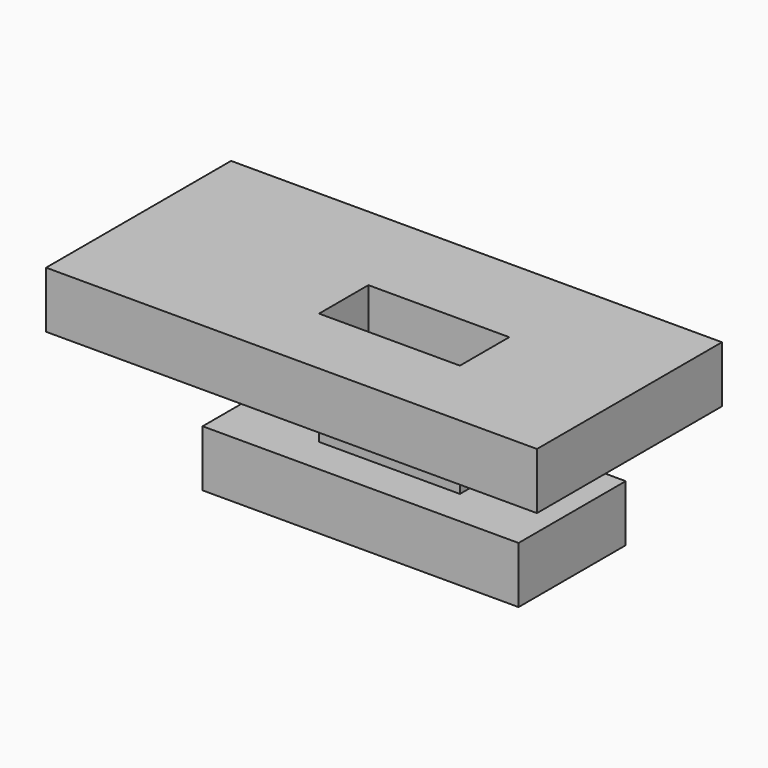
from build123d import *

# Parameters (mm, degrees)
F0_W     = 139.871492
F0_H     = 59.277482
F1_DEPTH = 25
F2_W     = 62.367704
F2_H     = 27.303834
F3_DEPTH = 25
F4_W     = 217.298236
F4_H     = 102.357833
F4_W_2   = 62.367704
F4_H_2   = 27.303834
F5_DEPTH = 25


with BuildPart() as f1:
    # F0 (on Top) → F1 (new body)
    with BuildSketch(Plane.XY):
        Rectangle(F0_W, F0_H)
    extrude(amount=F1_DEPTH)

    # F2 (on face) → F3 (join)
    with BuildSketch(Plane.XY.offset(25)):
        Rectangle(F2_W, F2_H)
    extrude(amount=F3_DEPTH)


with BuildPart() as f5:
    # F4 (on face) → F5 (new body)
    with BuildSketch(Plane.XY.offset(50)):
        with Locations((-17.706858, 5.449675)):
            Rectangle(F4_W, F4_H)
        Rectangle(F4_W_2, F4_H_2, mode=Mode.SUBTRACT)
    extrude(amount=F5_DEPTH)


solid = Compound([f1.part, f5.part])
